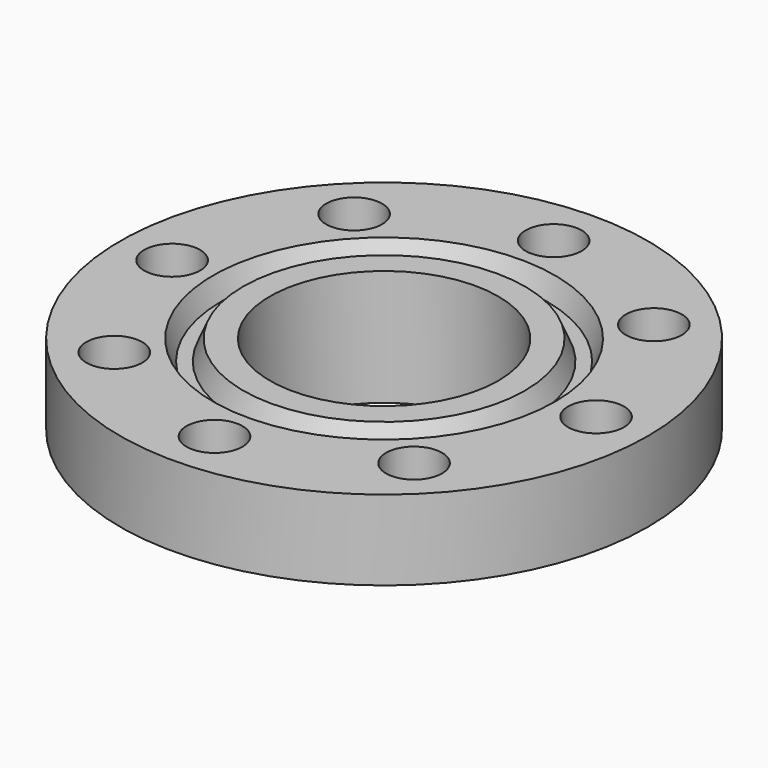
from build123d import *

# Parameters (mm, degrees)
F0_R     = 104.775
F1_DEPTH = 31.75
F2_R     = 58.7375
F3_DEPTH = 14.2875
F3_TAPER = 3
F4_R     = 45.339
F5_DEPTH = 46.0385001
F10_D    = 22.225


with BuildPart() as f1:
    # F0 (on Top) → F1 (new body)
    with BuildSketch(Plane.XY):
        Circle(F0_R)
    extrude(amount=-F1_DEPTH)

    # F2 (on face) → F3 (join)
    with BuildSketch(Plane(origin=(0, 0, -31.75), x_dir=(1, 0, 0), z_dir=(0, 0, -1))):
        Circle(F2_R)
    extrude(amount=F3_DEPTH, taper=F3_TAPER)

    # F4 (on face) → F5 (cut, through all)
    with BuildSketch(Plane.XY):
        Circle(F4_R)
    extrude(amount=-F5_DEPTH, mode=Mode.SUBTRACT)

    # F6 (on Front) → F8 (revolve, cut)
    with BuildSketch(Plane.XZ):
        Polygon((61.9125, -7.9375), (61.9125, 0), (55.959375, 0), (59.3286438537, -7.9375), align=None)
        Polygon((67.865625, 0), (61.9125, 0), (61.9125, -7.9375), (64.4963561463, -7.9375), align=None)
    revolve(axis=Axis((0, 0, 0), (0, 0, 1)), mode=Mode.SUBTRACT)

    # F10 (through all)
    with Locations(Plane.XY):
        with Locations((59.4941968021, 59.4941968021), (84.1375, 0), (59.4941968021, -59.4941968021), (0, -84.1375), (-59.4941968021, -59.4941968021), (-84.1375, 0), (-59.4941968021, 59.4941968021), (0, 84.1375)):
            Hole(F10_D / 2)


solid = f1.part
